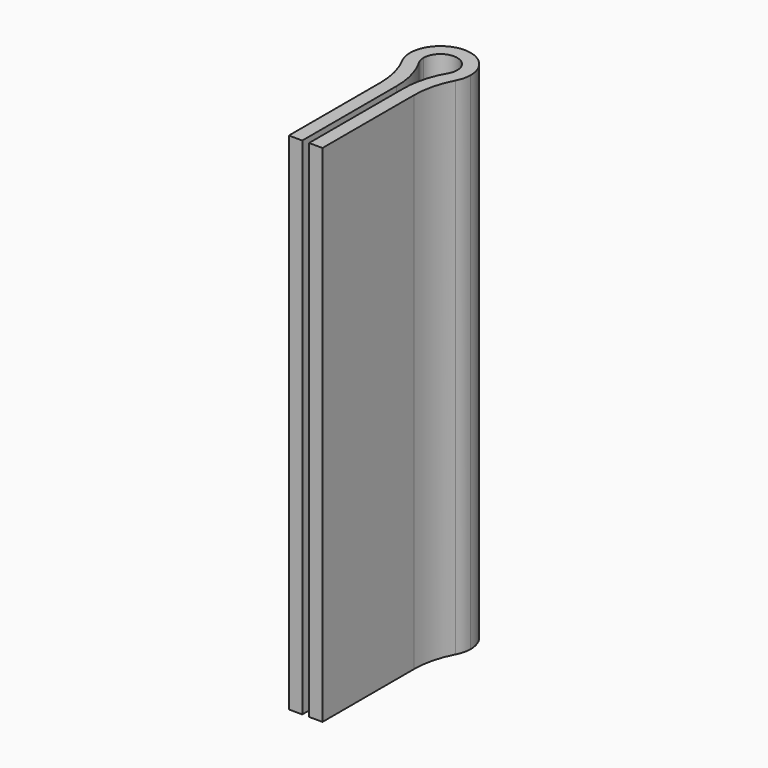
from build123d import *

# Parameters (mm, degrees)
F1_DEPTH = 30
F2_R     = 5


with BuildPart() as f1:
    # F0 (on Top) → F1 (new body)
    with BuildSketch(Plane.XY):
        with BuildLine():
            Line((-1, 0), (-0.2, 0))
            Line((-0.2, 0), (-0.2, 8.211145618))
            ThreePointArc((-0.2, 8.211145618), (-0.6175305317, 8.3092439435), (-1, 8.5033370453))
            Line((-1, 8.5033370453), (-1, 0))
        make_face()
        with BuildLine():
            ThreePointArc((-1, 8.5033370453), (-0.6175305317, 8.3092439435), (-0.2, 8.211145618))
            Line((-0.2, 8.211145618), (-0.2, 9.0202041029))
            ThreePointArc((-0.2, 9.0202041029), (-0.7745966692, 9.367544468), (-1, 10))
            Line((-1, 10), (-1, 8.5033370453))
        make_face()
        with BuildLine():
            ThreePointArc((1.8, 10), (-0.8485281374, 11.5874507866), (-1, 8.5033370453))
            Line((-1, 8.5033370453), (-1, 10))
            ThreePointArc((-1, 10), (0, 11), (1, 10))
            Line((1, 10), (1, 8.5033370453))
            ThreePointArc((1, 8.5033370453), (1.5874507866, 9.1514718626), (1.8, 10))
        make_face()
        with BuildLine():
            Line((0.2, 9.0202041029), (0.2, 8.211145618))
            ThreePointArc((0.2, 8.211145618), (0.6175305317, 8.3092439435), (1, 8.5033370453))
            Line((1, 8.5033370453), (1, 10))
            ThreePointArc((1, 10), (0.7745966692, 9.367544468), (0.2, 9.0202041029))
        make_face()
        with BuildLine():
            ThreePointArc((1, 8.5033370453), (0.6175305317, 8.3092439435), (0.2, 8.211145618))
            Line((0.2, 8.211145618), (0.2, 0))
            Line((0.2, 0), (1, 0))
            Line((1, 0), (1, 8.5033370453))
        make_face()
    extrude(amount=F1_DEPTH)

    # F2
    f2_edges = [f1.edges().sort_by_distance(p)[0] for p in [
        (-0.2, 9.020204, 15),
        (0.2, 9.020204, 15),
        (-1, 8.503337, 15),
        (1, 8.503337, 15),
    ]]
    fillet(f2_edges, radius=F2_R)


solid = f1.part
